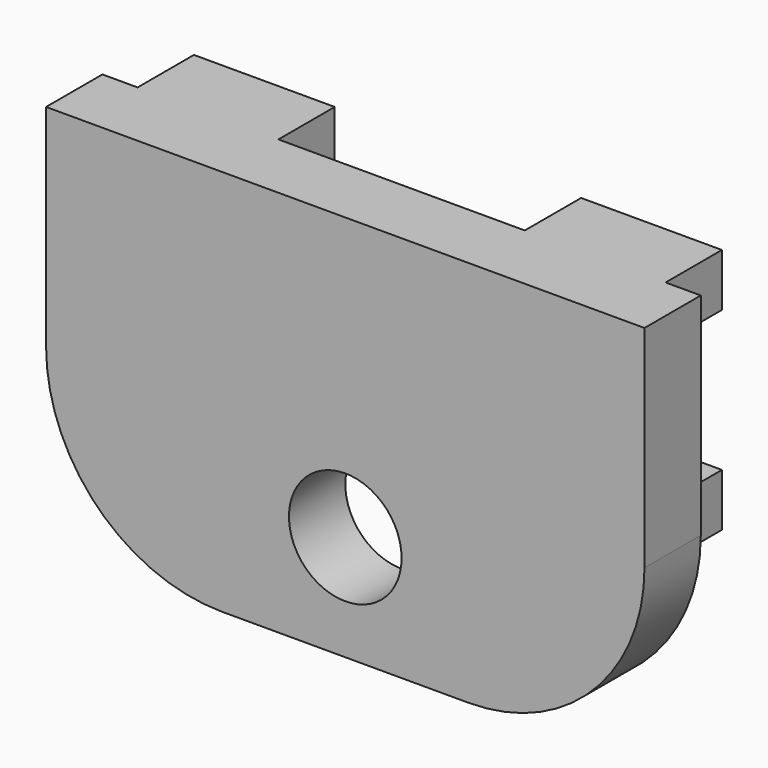
from build123d import *

# Parameters (mm, degrees)
BOX177_W          = 4
BOX177_H          = 2
BOX177_DEPTH      = 1.5
BOX172_W          = 4
BOX172_H          = 2
BOX172_DEPTH      = 1.5
BOX171_W          = 4
BOX171_H          = 2
BOX171_DEPTH      = 1.5
BOX170_W          = 4
BOX170_H          = 2
BOX170_DEPTH      = 1.5
CYLINDER068_R     = 1.6
CYLINDER068_DEPTH = 2
BOX169_W          = 17
BOX169_H          = 2
BOX169_DEPTH      = 11
FILLET037_R       = 5


with BuildPart() as cube166:
    # Box177 → Box177 (new body)
    with BuildSketch(Plane(origin=(64.5, -17, -8), x_dir=(1, 0, 0), z_dir=(0, 0, 1))):
        with Locations((2, 1)):
            Rectangle(BOX177_W, BOX177_H)
    extrude(amount=BOX177_DEPTH)


with BuildPart() as cube161:
    # Box172 → Box172 (new body)
    with BuildSketch(Plane(origin=(75.5, -17, -8), x_dir=(1, 0, 0), z_dir=(0, 0, 1))):
        with Locations((2, 1)):
            Rectangle(BOX172_W, BOX172_H)
    extrude(amount=BOX172_DEPTH)


with BuildPart() as cube160:
    # Box171 → Box171 (new body)
    with BuildSketch(Plane(origin=(64.5, -17, -2.5), x_dir=(1, 0, 0), z_dir=(0, 0, 1))):
        with Locations((2, 1)):
            Rectangle(BOX171_W, BOX171_H)
    extrude(amount=BOX171_DEPTH)


with BuildPart() as cube159:
    # Box170 → Box170 (new body)
    with BuildSketch(Plane(origin=(75.5, -17, -2.5), x_dir=(1, 0, 0), z_dir=(0, 0, 1))):
        with Locations((2, 1)):
            Rectangle(BOX170_W, BOX170_H)
    extrude(amount=BOX170_DEPTH)


with BuildPart() as cylinder149:
    # Cylinder068 → Cylinder068 (new body)
    with BuildSketch(Plane(origin=(72, -17, -9), x_dir=(1, 0, 0), z_dir=(0, -1, 0))):
        Circle(CYLINDER068_R)
    extrude(amount=CYLINDER068_DEPTH)


with BuildPart() as fusion053:
    # Box169 → Box169 (new body)
    with BuildSketch(Plane(origin=(63.5, -19, -12), x_dir=(1, 0, 0), z_dir=(0, 0, 1))):
        with Locations((8.5, 1)):
            Rectangle(BOX169_W, BOX169_H)
    extrude(amount=BOX169_DEPTH)

    # Fillet037
    fillet037_edges = [fusion053.edges().sort_by_distance(p)[0] for p in [
        (63.5, -18, -12),
        (80.5, -18, -12),
    ]]
    fillet(fillet037_edges, radius=FILLET037_R)

    # Cut091: cut Cylinder149
    add(cylinder149.part, mode=Mode.SUBTRACT)

    # Fusion053: union Cube166, Cube161, Cube160, Cube159
    add(cube166.part)
    add(cube161.part)
    add(cube160.part)
    add(cube159.part)


solid = fusion053.part
